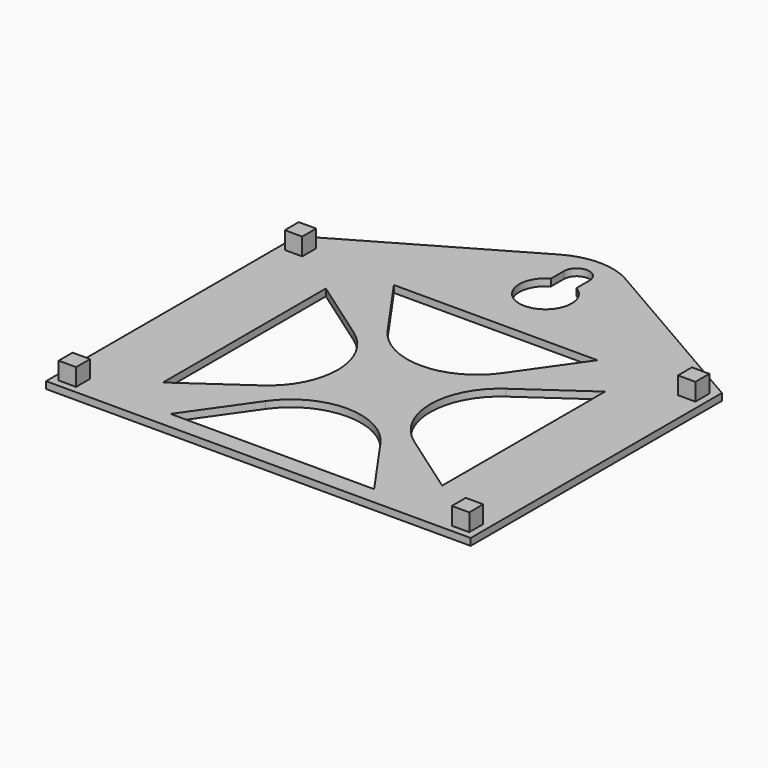
from build123d import *

# Parameters (mm, degrees)
PAD_DEPTH             = 1.2
POCKET_DEPTH          = 208.145687
POLARPATTERN_COUNT    = 4
POCKET001_DEPTH       = 1.201
SKETCH003_W           = 3
SKETCH003_H           = 3
PAD001_DEPTH          = 3
POLARPATTERN001_COUNT = 2


with BuildPart() as part:
    # Sketch → Pad (new body)
    with BuildSketch(Plane.XY):
        with BuildLine():
            Line((36.5, 27), (36.5, -27))
            Line((36.5, -27), (-36.5, -27))
            Line((-36.5, -27), (-36.5, 27))
            Line((-36.5, 27), (-5.660898, 44.804964))
            ThreePointArc((5.660898, 44.804964), (0, 46.321797), (-5.660898, 44.804964))
            Line((5.660898, 44.804964), (36.5, 27))
        make_face()
    extrude(amount=PAD_DEPTH)

    # Sketch001 (on Face8 of Pad) → Pocket (cut, through all)
    with BuildSketch(Plane.XY.offset(1.2)):
        with BuildLine():
            Line((-24, 17.5), (-24, -17.5))
            Line((-13.093649, -9.863291), (-24, -17.5))
            ThreePointArc((-13.093649, -9.863291), (-7.959145, 0), (-13.093649, 9.863291))
            Line((-13.093649, 9.863291), (-24, 17.5))
        make_face()
    pocket = extrude(amount=-POCKET_DEPTH, mode=Mode.SUBTRACT)

    # PolarPattern: Pocket ×4 about axis
    polarpattern_axis = Axis((0, 0, 1.2), (0, 0, 1))
    for i in range(1, POLARPATTERN_COUNT):
        add(pocket.rotate(polarpattern_axis, i * 360 / POLARPATTERN_COUNT), mode=Mode.SUBTRACT)

    # Sketch002 (on Face5 of PolarPattern) → Pocket001 (cut, through all)
    with BuildSketch(Plane.XY.offset(1.2)):
        with BuildLine():
            Line((-2.2, 38.625557), (-2.2, 41.399983))
            ThreePointArc((2.2, 41.399982), (1e-06, 43.6), (-2.2, 41.399983))
            Line((2.2, 38.625557), (2.2, 41.399982))
            ThreePointArc((-2.2, 38.625557), (0, 30.2), (2.2, 38.625557))
        make_face()
    extrude(amount=-POCKET001_DEPTH, mode=Mode.SUBTRACT)

    # Sketch003 (on Face5 of Pocket001) → Pad001 (join)
    with BuildSketch(Plane.XY.offset(1.2)):
        with Locations((-33.8, -24.3)):
            Rectangle(SKETCH003_W, SKETCH003_H)
    pad001 = extrude(amount=PAD001_DEPTH)

    # PolarPattern001: Pad001 ×2 about axis
    polarpattern001_axis = Axis((0, 0, 1.2), (0, 0, 1))
    for i in range(1, POLARPATTERN001_COUNT):
        add(pad001.rotate(polarpattern001_axis, i * 360 / POLARPATTERN001_COUNT))

    # Mirrored: Pad001 across YZ
    add(pad001.mirror(Plane.YZ))

    # Mirrored001: Pad001 across XZ
    add(pad001.mirror(Plane.XZ))


solid = part.part
